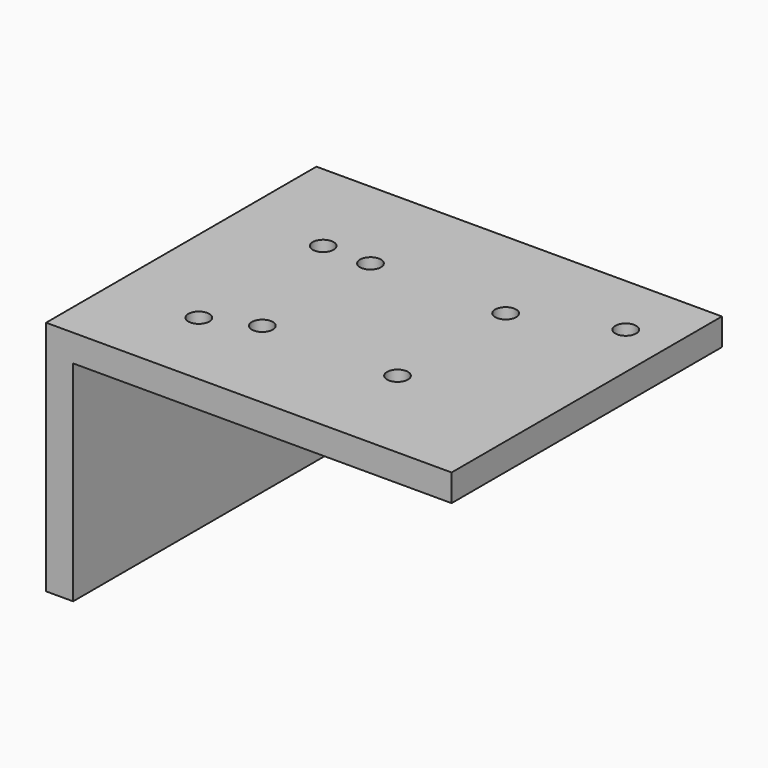
from build123d import *

# Parameters (mm, degrees)
F1_DEPTH = 50
F2_R     = 1.55
F3_DEPTH = 4


with BuildPart() as f1:
    # F0 (on Front) → F1 (new body)
    with BuildSketch(Plane.XZ):
        Polygon((60, 0), (0, 0), (0, -35), (4, -35), (4, -4), (60, -4), align=None)
    extrude(amount=F1_DEPTH)

    # F2 (on face) → F3 (cut, through all)
    with BuildSketch(Plane.XY):
        with Locations((40, -15)):
            Circle(F2_R)
        with Locations((20, -15)):
            Circle(F2_R)
        with Locations((20, -35)):
            Circle(F2_R)
        with Locations((40, -35)):
            Circle(F2_R)
        with Locations((13, -38)):
            Circle(F2_R)
        with Locations((13, -15)):
            Circle(F2_R)
        with Locations((53.38319, -9.517766)):
            Circle(F2_R)
    extrude(amount=-F3_DEPTH, mode=Mode.SUBTRACT)


solid = f1.part
